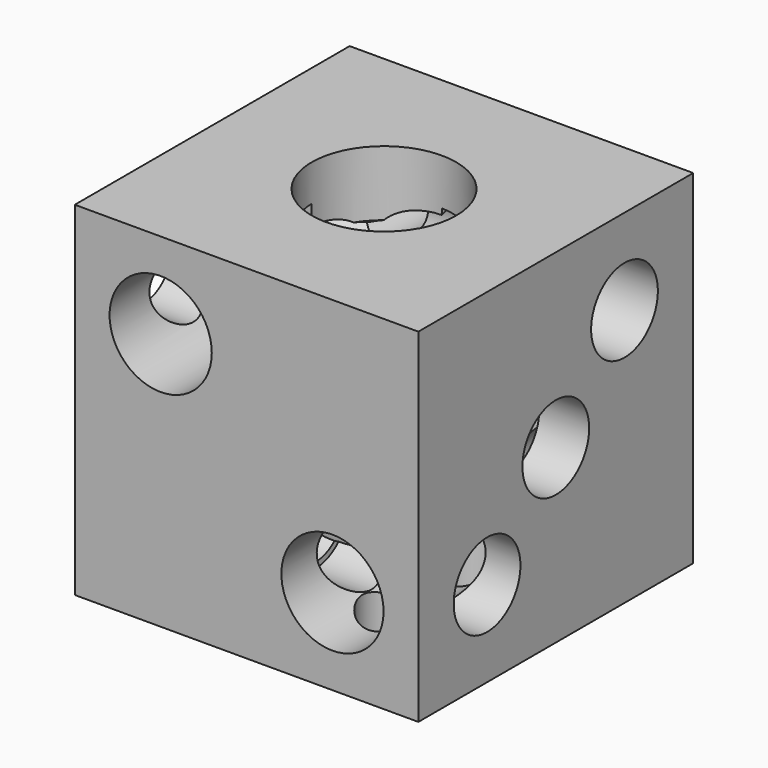
from build123d import *

# Parameters (mm, degrees)
F0_W          = 60
F0_H          = 60
F1_DEPTH      = 30
F1_DEPTH_BACK = 30
F6_R          = 5.643326
F8_DEPTH      = 30
F2_R          = 12.618862
F9_DEPTH      = 30
F4_R          = 7.285503
F10_DEPTH     = 30
F3_R          = 8.922883
F11_DEPTH     = 30
F7_R          = 5.151629
F12_DEPTH     = 30
F5_R          = 6.309431
F13_DEPTH     = 30


with BuildPart() as f1:
    # F0 (on Top) → F1 (new body, two sides)
    with BuildSketch(Plane.XY) as f1_sk:
        Rectangle(F0_W, F0_H)
    extrude(amount=F1_DEPTH)
    extrude(f1_sk.sketch, amount=-F1_DEPTH_BACK)

    # F6 (on face) → F8 (cut)
    with BuildSketch(Plane(origin=(0, 30, 0), x_dir=(-1, 0, 0), z_dir=(0, 1, 0))):
        with Locations((15, 15)):
            Circle(F6_R)
        Circle(F6_R)
        with Locations((-15, 15)):
            Circle(F6_R)
        with Locations((-15, -15)):
            Circle(F6_R)
        with Locations((15, -15)):
            Circle(F6_R)
    extrude(amount=-F8_DEPTH, mode=Mode.SUBTRACT)

    # F2 (on face) → F9 (cut)
    with BuildSketch(Plane.XY.offset(30)):
        Circle(F2_R)
    extrude(amount=-F9_DEPTH, mode=Mode.SUBTRACT)

    # F4 (on face) → F10 (cut)
    with BuildSketch(Plane.YZ.offset(30)):
        with Locations((15, 15)):
            Circle(F4_R)
        Circle(F4_R)
        with Locations((-15, -15)):
            Circle(F4_R)
    extrude(amount=-F10_DEPTH, mode=Mode.SUBTRACT)

    # F3 (on face) → F11 (cut)
    with BuildSketch(Plane.XZ.offset(30)):
        with Locations((15, -15)):
            Circle(F3_R)
        with Locations((-15, 15)):
            Circle(F3_R)
    extrude(amount=-F11_DEPTH, mode=Mode.SUBTRACT)

    # F7 (on face) → F12 (cut)
    with BuildSketch(Plane(origin=(0, 0, -30), x_dir=(1, 0, 0), z_dir=(0, 0, -1))):
        with Locations((-15, -17)):
            Circle(F7_R)
        with Locations((-15, 0)):
            Circle(F7_R)
        with Locations((-15, 17)):
            Circle(F7_R)
        with Locations((15, 17)):
            Circle(F7_R)
        with Locations((15, 0)):
            Circle(F7_R)
        with Locations((15, -17)):
            Circle(F7_R)
    extrude(amount=-F12_DEPTH, mode=Mode.SUBTRACT)

    # F5 (on face) → F13 (cut)
    with BuildSketch(Plane(origin=(-30, 0, 0), x_dir=(0, -1, 0), z_dir=(-1, 0, 0))):
        with Locations((-15, -15)):
            Circle(F5_R)
        with Locations((-15, 15)):
            Circle(F5_R)
        with Locations((15, 15)):
            Circle(F5_R)
        with Locations((15, -15)):
            Circle(F5_R)
    extrude(amount=-F13_DEPTH, mode=Mode.SUBTRACT)

    # F14 (on Front) → F15 (revolve, cut)
    with BuildSketch(Plane.XZ):
        with BuildLine():
            ThreePointArc((0, -22.5), (15.909903, -15.909903), (22.5, 0))
            ThreePointArc((22.5, 0), (15.909903, 15.909903), (0, 22.5))
            Line((0, 22.5), (0, -22.5))
        make_face()
    revolve(axis=Axis((0, 0, 0), (0, 0, -1)), mode=Mode.SUBTRACT)


solid = f1.part
